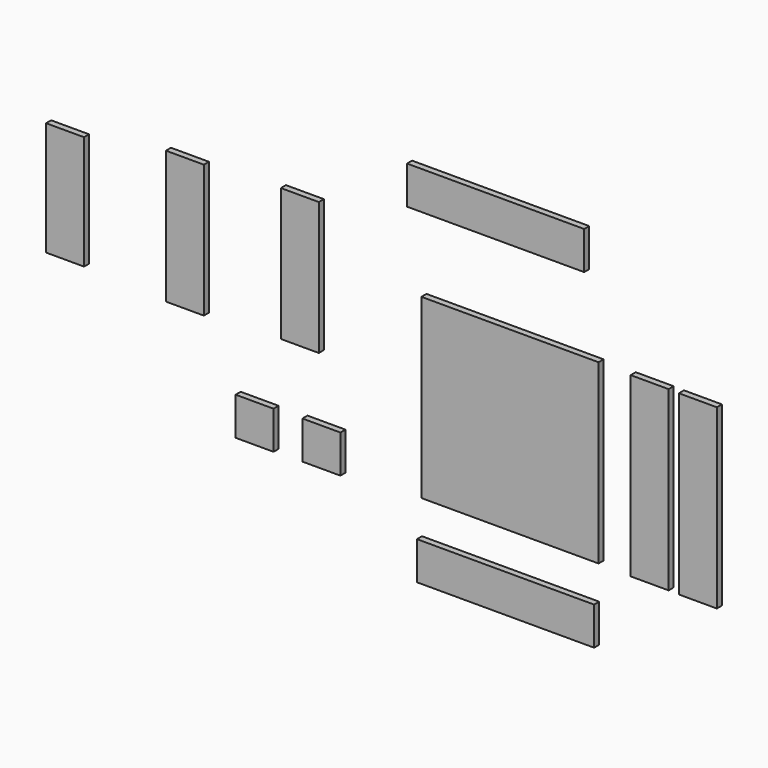
from build123d import *

# Parameters (mm, degrees)
F0_W     = 152.4
F0_H     = 457.2
F0_H_2   = 533.4
F0_W_2   = 711.2
F0_H_3   = 152.4
F0_H_4   = 711.2
F1_DEPTH = 25.4


with BuildPart() as f1:
    # F0 (on Front) → F1 (new body)
    with BuildSketch(Plane.XZ):
        with Locations((-1823.087224, 408.328895)):
            Rectangle(F0_W, F0_H)
        with Locations((-1342.256674, 429.644287)):
            Rectangle(F0_W, F0_H_2)
        with Locations((-880.68951, 447.594122)):
            Rectangle(F0_W, F0_H_2)
        with Locations((-94.941437, 889.322153)):
            Rectangle(F0_W_2, F0_H_3)
        with Locations((-37.243866, 157.800074)):
            Rectangle(F0_W_2, F0_H_4)
        with Locations((-55.101662, -424.999603)):
            Rectangle(F0_W_2, F0_H_3)
        with Locations((-794.09624, -148.168319)):
            Rectangle(F0_W, F0_H_3)
        with Locations((-1062.446841, -151.217752)):
            Rectangle(F0_W, F0_H_3)
        with Locations((523.433588, 154.208541)):
            Rectangle(F0_W, F0_H_4)
        with Locations((717.030517, 153.114796)):
            Rectangle(F0_W, F0_H_4)
    extrude(amount=F1_DEPTH)


solid = f1.part
